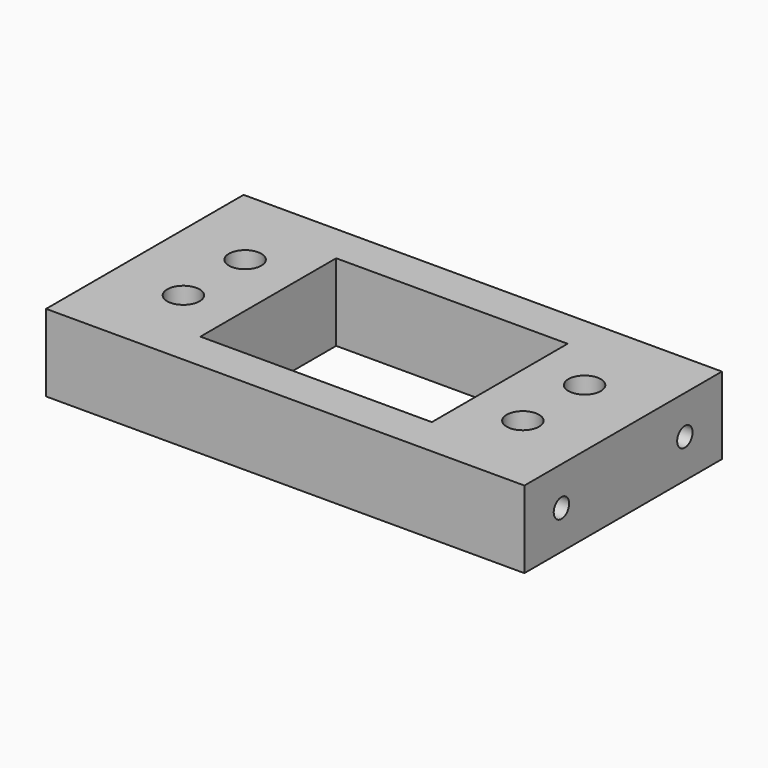
from build123d import *

# Parameters (mm, degrees)
F0_W     = 62
F0_H     = 32
F0_W_2   = 30
F0_H_2   = 22
F1_DEPTH = 10
F2_R     = 2.1
F3_DEPTH = 10.001
F4_R     = 1.25
F5_DEPTH = 15
F6_R     = 1.25
F7_DEPTH = 15


with BuildPart() as f1:
    # F0 (on Top) → F1 (new body)
    with BuildSketch(Plane.XY):
        Rectangle(F0_W, F0_H)
        Rectangle(F0_W_2, F0_H_2, mode=Mode.SUBTRACT)
    extrude(amount=F1_DEPTH)

    # F2 (on face) → F3 (cut, through all)
    with BuildSketch(Plane.XY.offset(10)):
        with Locations((-22, 5)):
            Circle(F2_R)
        with Locations((-22, -5)):
            Circle(F2_R)
        with Locations((22, 5)):
            Circle(F2_R)
        with Locations((22, -5)):
            Circle(F2_R)
    extrude(amount=-F3_DEPTH, mode=Mode.SUBTRACT)

    # F4 (on face) → F5 (cut)
    with BuildSketch(Plane(origin=(-31, 0, 0), x_dir=(0, -1, 0), z_dir=(-1, 0, 0))):
        with Locations((10, 5)):
            Circle(F4_R)
        with Locations((-10, 5)):
            Circle(F4_R)
    extrude(amount=-F5_DEPTH, mode=Mode.SUBTRACT)

    # F6 (on face) → F7 (cut)
    with BuildSketch(Plane.YZ.offset(31)):
        with Locations((-10, 5)):
            Circle(F6_R)
        with Locations((10, 5)):
            Circle(F6_R)
    extrude(amount=-F7_DEPTH, mode=Mode.SUBTRACT)


solid = f1.part
